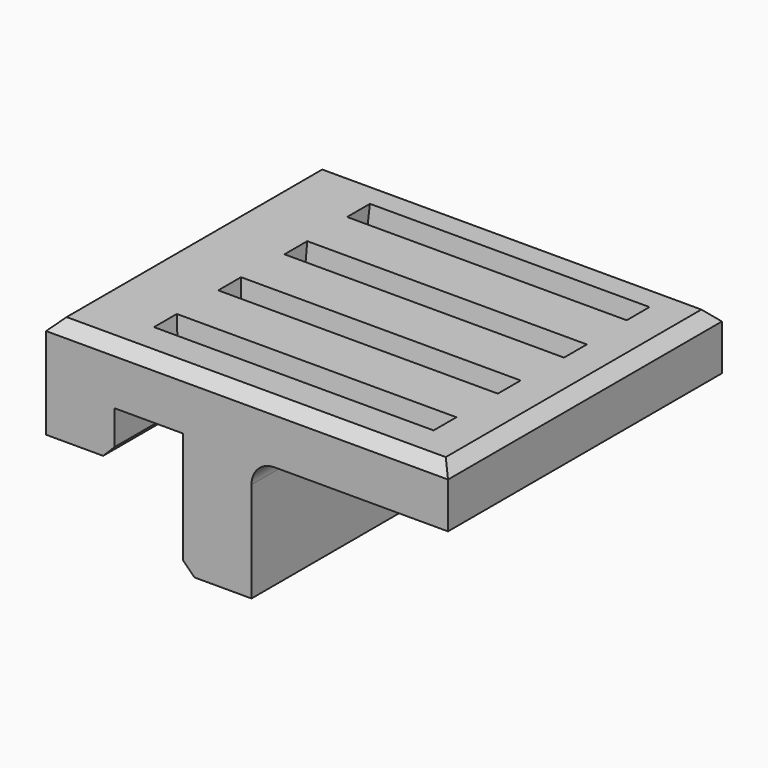
from build123d import *

# Parameters (mm, degrees)
F1_DEPTH = 30
F2_SIZE  = 1
F3_R     = 2
F4_W     = 24.5
F4_H     = 2.5
F6_W     = 24.5389966294
F6_H     = 2.5
F6_W_2   = 24.6412428096
F6_W_3   = 24.4367551059
F6_W_4   = 24.5
F6_H_2   = 2.25


with BuildPart() as f1:
    # F0 (on Front) → F1 (new body)
    with BuildSketch(Plane.XZ):
        Polygon((-6, 0), (0, 0), (0, 10.7777772923), (17.2222208352, 10.7777772923), (17.2222208352, 15.7777772923), (4.666664066, 15.7777772923), (-18, 15.7777772923), (-18, 6.7777772923), (-12, 6.7777772923), (-12, 10.7777772923), (-6, 10.7777772923), align=None)
    extrude(amount=F1_DEPTH)

    # F2
    f2_edges = [f1.edges().sort_by_distance(p)[0] for p in [
        (-0.38889, -30, 15.777777),
        (17.222221, -15, 15.777777),
        (-0.38889, 0, 15.777777),
        (-18, -15, 15.777777),
        (-12, -15, 6.777777),
        (-6, -15, 0),
    ]]
    chamfer(f2_edges, length=F2_SIZE)

    # F3
    f3_edges = [f1.edges().sort_by_distance(p)[0] for p in [
        (0, -15, 10.777777),
    ]]
    fillet(f3_edges, radius=F3_R)

    # F4 (on face) → F7 section 0
    with BuildSketch(Plane.XY.offset(15.7777772923)):
        with Locations((0.8522442952, -25.1817190625)):
            Rectangle(F4_W, F4_H)
    # F6 (on offset) → F7 section 1
    with BuildSketch(Plane.XY.offset(12.2777772923)):
        with Locations((1.4323252253, -25.75)):
            Rectangle(F6_W, F6_H)
    loft(mode=Mode.SUBTRACT)

    # F4 (on face) → F8 section 0
    with BuildSketch(Plane.XY.offset(15.7777772923)):
        with Locations((0.8801504448, -18.1817190625)):
            Rectangle(F4_W, F4_H)
    # F6 (on offset) → F8 section 1
    with BuildSketch(Plane.XY.offset(12.2777772923)):
        with Locations((1.3812021352, -18.75)):
            Rectangle(F6_W_2, F6_H)
    loft(mode=Mode.SUBTRACT)

    # F4 (on face) → F9 section 0
    with BuildSketch(Plane.XY.offset(15.7777772923)):
        with Locations((1.0807377696, -11.1817190625)):
            Rectangle(F4_W, F4_H)
    # F6 (on offset) → F9 section 1
    with BuildSketch(Plane.XY.offset(12.2777772923)):
        with Locations((1.1767121032, -11.75)):
            Rectangle(F6_W_3, F6_H)
    loft(mode=Mode.SUBTRACT)

    # F4 (on face) → F10 section 0
    with BuildSketch(Plane.XY.offset(15.7777772923)):
        with Locations((0.9722208352, -4.1817190625)):
            Rectangle(F4_W, F4_H)
    # F6 (on offset) → F10 section 1
    with BuildSketch(Plane.XY.offset(12.2777772923)):
        with Locations((0.9722208352, -4.625)):
            Rectangle(F6_W_4, F6_H_2)
    loft(mode=Mode.SUBTRACT)


solid = f1.part
